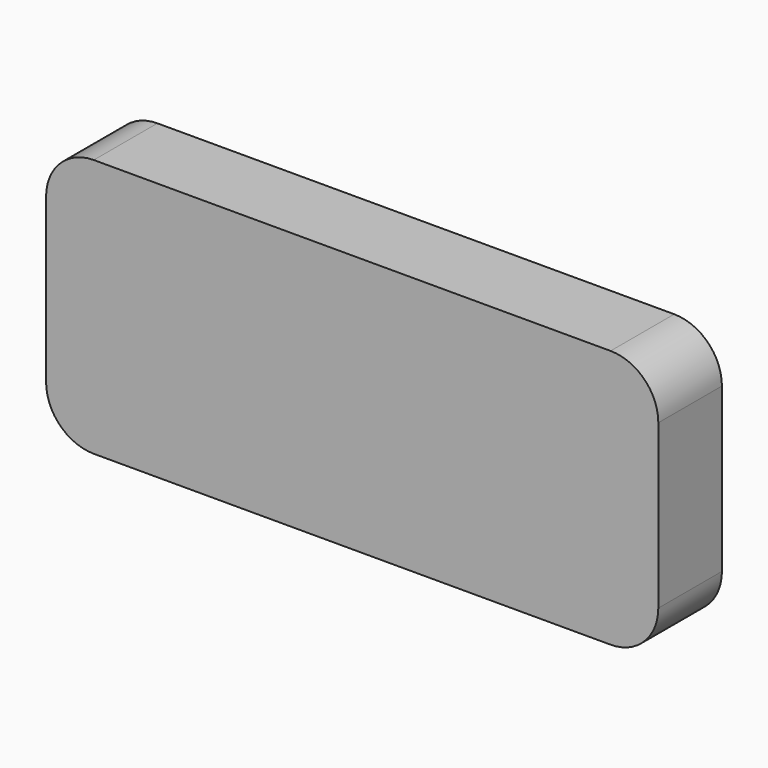
from build123d import *

# Parameters (mm, degrees)
F1_DEPTH = 6.35
F2_R     = 2.1463
F3_DEPTH = 2.31966


with BuildPart() as f1:
    # F0 (on Front) → F1 (new body)
    with BuildSketch(Plane.XZ):
        with BuildLine():
            Line((20.633775, 10.325733), (-20.633775, 10.325733))
            ThreePointArc((-20.633775, 10.325733), (-23.327852, 9.209809), (-24.443775, 6.515733))
            Line((-24.443775, 6.515733), (-24.443775, -6.515733))
            ThreePointArc((-24.443775, -6.515733), (-23.327852, -9.209809), (-20.633775, -10.325733))
            Line((-20.633775, -10.325733), (20.633775, -10.325733))
            ThreePointArc((20.633775, -10.325733), (23.327852, -9.209809), (24.443775, -6.515733))
            Line((24.443775, -6.515733), (24.443775, 6.515733))
            ThreePointArc((24.443775, 6.515733), (23.327852, 9.209809), (20.633775, 10.325733))
        make_face()
    extrude(amount=F1_DEPTH)

    # F2 (on Front) → F3 (cut)
    with BuildSketch(Plane.XZ):
        Circle(F2_R)
    extrude(amount=F3_DEPTH, mode=Mode.SUBTRACT)


solid = f1.part
